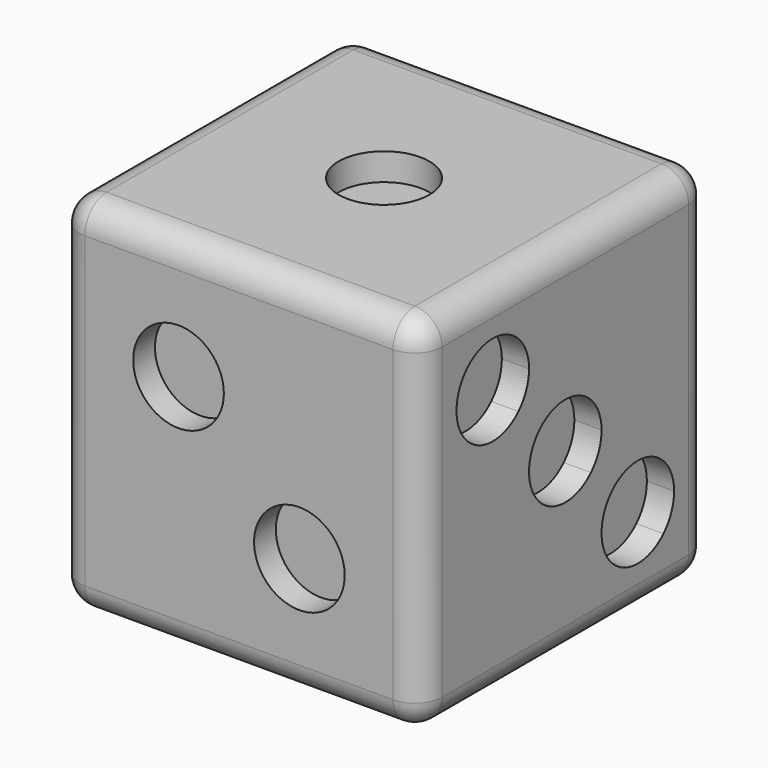
from build123d import *

# Parameters (mm, degrees)
F1_W      = 20
F1_H      = 20
F2_DEPTH  = 20
F3_R      = 2.5
F9_DEPTH  = 1.5
F10_DEPTH = 1.5
F11_DEPTH = 1.5
F12_DEPTH = 1.5
F13_DEPTH = 1.5
F14_DEPTH = 1.5
F15_R     = 1.5


with BuildPart() as f2:
    # F1 (on Top) → F2 (new body)
    with BuildSketch(Plane.XY):
        Rectangle(F1_W, F1_H)
    extrude(amount=F2_DEPTH)

    # F3 (on face) → F9 (cut)
    with BuildSketch(Plane.XY.offset(20)):
        Circle(F3_R)
    extrude(amount=-F9_DEPTH, mode=Mode.SUBTRACT)

    # F6 (on face) → F10 (cut)
    with BuildSketch(Plane.XZ.offset(10)):
        with BuildLine():
            ThreePointArc((-0.8333333333, 13.3333333333), (-2.3766247524, 15.6430321646), (-5.1011002863, 15.1011002863))
            Line((-5.1011002863, 15.1011002863), (-3.3333333333, 13.3333333333))
            Line((-3.3333333333, 13.3333333333), (-1.5655663804, 11.5655663804))
            ThreePointArc((-1.5655663804, 11.5655663804), (-1.0236345021, 12.3766247524), (-0.8333333333, 13.3333333333))
        make_face()
        with BuildLine():
            Line((-3.3333333333, 13.3333333333), (-5.1011002863, 15.1011002863))
            ThreePointArc((-5.1011002863, 15.1011002863), (-5.1011002863, 11.5655663804), (-1.5655663804, 11.5655663804))
            Line((-1.5655663804, 11.5655663804), (-3.3333333333, 13.3333333333))
        make_face()
        with BuildLine():
            ThreePointArc((5.8333333333, 6.6666666667), (4.2900419142, 8.9763654979), (1.5655663804, 8.4344336196))
            Line((1.5655663804, 8.4344336196), (3.3333333333, 6.6666666667))
            Line((3.3333333333, 6.6666666667), (5.1011002863, 4.8988997137))
            ThreePointArc((5.1011002863, 4.8988997137), (5.6430321646, 5.7099580858), (5.8333333333, 6.6666666667))
        make_face()
        with BuildLine():
            Line((3.3333333333, 6.6666666667), (1.5655663804, 8.4344336196))
            ThreePointArc((1.5655663804, 8.4344336196), (1.5655663804, 4.8988997137), (5.1011002863, 4.8988997137))
            Line((5.1011002863, 4.8988997137), (3.3333333333, 6.6666666667))
        make_face()
    extrude(amount=-F10_DEPTH, mode=Mode.SUBTRACT)

    # F8 (on face) → F11 (cut)
    with BuildSketch(Plane.YZ.offset(10)):
        with BuildLine():
            Line((-5, 15), (-6.767766953, 16.767766953))
            ThreePointArc((-6.767766953, 16.767766953), (-6.767766953, 13.232233047), (-3.232233047, 13.232233047))
            Line((-3.232233047, 13.232233047), (-5, 15))
        make_face()
        with BuildLine():
            ThreePointArc((-2.5, 15), (-4.0432914191, 17.3096988313), (-6.767766953, 16.767766953))
            Line((-6.767766953, 16.767766953), (-5, 15))
            Line((-5, 15), (-3.232233047, 13.232233047))
            ThreePointArc((-3.232233047, 13.232233047), (-2.6903011687, 14.0432914191), (-2.5, 15))
        make_face()
        with BuildLine():
            Line((0, 10), (-1.767766953, 11.767766953))
            ThreePointArc((-1.767766953, 11.767766953), (-1.767766953, 8.232233047), (1.767766953, 8.232233047))
            Line((1.767766953, 8.232233047), (0, 10))
        make_face()
        with BuildLine():
            ThreePointArc((2.5, 10), (0.9567085809, 12.3096988313), (-1.767766953, 11.767766953))
            Line((-1.767766953, 11.767766953), (0, 10))
            Line((0, 10), (1.767766953, 8.232233047))
            ThreePointArc((1.767766953, 8.232233047), (2.3096988313, 9.0432914191), (2.5, 10))
        make_face()
        with BuildLine():
            ThreePointArc((3.232233047, 6.767766953), (3.232233047, 3.232233047), (6.767766953, 3.232233047))
            Line((6.767766953, 3.232233047), (5, 5))
            Line((5, 5), (3.232233047, 6.767766953))
        make_face()
        with BuildLine():
            Line((5, 5), (6.767766953, 3.232233047))
            ThreePointArc((6.767766953, 3.232233047), (7.3096988313, 4.0432914191), (7.5, 5))
            ThreePointArc((7.5, 5), (5.9567085809, 7.3096988313), (3.232233047, 6.767766953))
            Line((3.232233047, 6.767766953), (5, 5))
        make_face()
    extrude(amount=-F11_DEPTH, mode=Mode.SUBTRACT)

    # F7 (on face) → F12 (cut)
    with BuildSketch(Plane(origin=(-10, 0, 0), x_dir=(0, -1, 0), z_dir=(-1, 0, 0))):
        with BuildLine():
            ThreePointArc((-3, 15.5), (-4.5432914191, 17.8096988313), (-7.267766953, 17.267766953))
            Line((-7.267766953, 17.267766953), (-5.5, 15.5))
            Line((-5.5, 15.5), (-3, 15.5))
        make_face()
        with BuildLine():
            Line((-5.5, 15.5), (-7.267766953, 17.267766953))
            ThreePointArc((-7.267766953, 17.267766953), (-7.8096988313, 14.5432914191), (-5.5, 13))
            Line((-5.5, 13), (-5.5, 15.5))
        make_face()
        with BuildLine():
            Line((-3.732233047, 13.732233047), (-5.5, 15.5))
            Line((-5.5, 15.5), (-5.5, 13))
            ThreePointArc((-5.5, 13), (-4.5432914191, 13.1903011687), (-3.732233047, 13.732233047))
        make_face()
        with BuildLine():
            Line((-3, 15.5), (-5.5, 15.5))
            Line((-5.5, 15.5), (-3.732233047, 13.732233047))
            ThreePointArc((-3.732233047, 13.732233047), (-3.1903011687, 14.5432914191), (-3, 15.5))
        make_face()
        with BuildLine():
            Line((5.5, 15.5), (7.267766953, 17.267766953))
            ThreePointArc((7.267766953, 17.267766953), (4.5432914191, 17.8096988313), (3, 15.5))
            Line((3, 15.5), (5.5, 15.5))
        make_face()
        with BuildLine():
            ThreePointArc((8, 15.5), (7.8096988313, 16.4567085809), (7.267766953, 17.267766953))
            Line((7.267766953, 17.267766953), (5.5, 15.5))
            Line((5.5, 15.5), (5.5, 13))
            ThreePointArc((5.5, 13), (7.267766953, 13.732233047), (8, 15.5))
        make_face()
        with BuildLine():
            Line((5.5, 13), (5.5, 15.5))
            Line((5.5, 15.5), (3.732233047, 13.732233047))
            ThreePointArc((3.732233047, 13.732233047), (4.5432914191, 13.1903011687), (5.5, 13))
        make_face()
        with BuildLine():
            Line((5.5, 15.5), (3, 15.5))
            ThreePointArc((3, 15.5), (3.1903011687, 14.5432914191), (3.732233047, 13.732233047))
            Line((3.732233047, 13.732233047), (5.5, 15.5))
        make_face()
        with BuildLine():
            Line((5.5, 4.5), (7.267766953, 2.732233047))
            ThreePointArc((7.267766953, 2.732233047), (7.8096988313, 3.5432914191), (8, 4.5))
            ThreePointArc((8, 4.5), (7.267766953, 6.267766953), (5.5, 7))
            Line((5.5, 7), (5.5, 4.5))
        make_face()
        with BuildLine():
            ThreePointArc((3, 4.5), (4.5432914191, 2.1903011687), (7.267766953, 2.732233047))
            Line((7.267766953, 2.732233047), (5.5, 4.5))
            Line((5.5, 4.5), (3, 4.5))
        make_face()
        with BuildLine():
            Line((3.732233047, 6.267766953), (5.5, 4.5))
            Line((5.5, 4.5), (5.5, 7))
            ThreePointArc((5.5, 7), (4.5432914191, 6.8096988313), (3.732233047, 6.267766953))
        make_face()
        with BuildLine():
            ThreePointArc((3.732233047, 6.267766953), (3.1903011687, 5.4567085809), (3, 4.5))
            Line((3, 4.5), (5.5, 4.5))
            Line((5.5, 4.5), (3.732233047, 6.267766953))
        make_face()
        with BuildLine():
            Line((-5.5, 4.5), (-7.267766953, 2.732233047))
            ThreePointArc((-7.267766953, 2.732233047), (-4.5432914191, 2.1903011687), (-3, 4.5))
            Line((-3, 4.5), (-5.5, 4.5))
        make_face()
        with BuildLine():
            Line((-3.732233047, 6.267766953), (-5.5, 4.5))
            Line((-5.5, 4.5), (-3, 4.5))
            ThreePointArc((-3, 4.5), (-3.1903011687, 5.4567085809), (-3.732233047, 6.267766953))
        make_face()
        with BuildLine():
            ThreePointArc((-3.732233047, 6.267766953), (-4.5432914191, 6.8096988313), (-5.5, 7))
            Line((-5.5, 7), (-5.5, 4.5))
            Line((-5.5, 4.5), (-3.732233047, 6.267766953))
        make_face()
        with BuildLine():
            ThreePointArc((-5.5, 7), (-7.8096988313, 5.4567085809), (-7.267766953, 2.732233047))
            Line((-7.267766953, 2.732233047), (-5.5, 4.5))
            Line((-5.5, 4.5), (-5.5, 7))
        make_face()
    extrude(amount=-F12_DEPTH, mode=Mode.SUBTRACT)

    # F5 (on face) → F13 (cut)
    with BuildSketch(Plane(origin=(0, 10, 0), x_dir=(-1, 0, 0), z_dir=(0, 1, 0))):
        with BuildLine():
            ThreePointArc((-5.5, 7), (-7.8096988313, 5.4567085809), (-7.267766953, 2.732233047))
            Line((-7.267766953, 2.732233047), (-5.5, 4.5))
            Line((-5.5, 4.5), (-5.5, 7))
        make_face()
        with BuildLine():
            Line((-5.5, 7), (-5.5, 4.5))
            Line((-5.5, 4.5), (-3.732233047, 6.267766953))
            ThreePointArc((-3.732233047, 6.267766953), (-4.5432914191, 6.8096988313), (-5.5, 7))
        make_face()
        with BuildLine():
            Line((-5.5, 4.5), (-7.267766953, 2.732233047))
            ThreePointArc((-7.267766953, 2.732233047), (-4.5432914191, 2.1903011687), (-3, 4.5))
            Line((-3, 4.5), (-5.5, 4.5))
        make_face()
        with BuildLine():
            Line((-3.732233047, 6.267766953), (-5.5, 4.5))
            Line((-5.5, 4.5), (-3, 4.5))
            ThreePointArc((-3, 4.5), (-3.1903011687, 5.4567085809), (-3.732233047, 6.267766953))
        make_face()
        with BuildLine():
            Line((-5.5, 15.5), (-7.267766953, 17.267766953))
            ThreePointArc((-7.267766953, 17.267766953), (-7.8096988313, 14.5432914191), (-5.5, 13))
            Line((-5.5, 13), (-5.5, 15.5))
        make_face()
        with BuildLine():
            ThreePointArc((-3, 15.5), (-4.5432914191, 17.8096988313), (-7.267766953, 17.267766953))
            Line((-7.267766953, 17.267766953), (-5.5, 15.5))
            Line((-5.5, 15.5), (-3, 15.5))
        make_face()
        with BuildLine():
            Line((-3, 15.5), (-5.5, 15.5))
            Line((-5.5, 15.5), (-3.732233047, 13.732233047))
            ThreePointArc((-3.732233047, 13.732233047), (-3.1903011687, 14.5432914191), (-3, 15.5))
        make_face()
        with BuildLine():
            Line((-5.5, 15.5), (-5.5, 13))
            ThreePointArc((-5.5, 13), (-4.5432914191, 13.1903011687), (-3.732233047, 13.732233047))
            Line((-3.732233047, 13.732233047), (-5.5, 15.5))
        make_face()
        with BuildLine():
            ThreePointArc((8, 15.5), (7.8096988313, 16.4567085809), (7.267766953, 17.267766953))
            Line((7.267766953, 17.267766953), (5.5, 15.5))
            Line((5.5, 15.5), (5.5, 13))
            ThreePointArc((5.5, 13), (7.267766953, 13.732233047), (8, 15.5))
        make_face()
        with BuildLine():
            Line((5.5, 13), (5.5, 15.5))
            Line((5.5, 15.5), (3.732233047, 13.732233047))
            ThreePointArc((3.732233047, 13.732233047), (4.5432914191, 13.1903011687), (5.5, 13))
        make_face()
        with BuildLine():
            Line((5.5, 15.5), (3, 15.5))
            ThreePointArc((3, 15.5), (3.1903011687, 14.5432914191), (3.732233047, 13.732233047))
            Line((3.732233047, 13.732233047), (5.5, 15.5))
        make_face()
        with BuildLine():
            Line((5.5, 15.5), (7.267766953, 17.267766953))
            ThreePointArc((7.267766953, 17.267766953), (4.5432914191, 17.8096988313), (3, 15.5))
            Line((3, 15.5), (5.5, 15.5))
        make_face()
        with BuildLine():
            Line((5.5, 4.5), (7.267766953, 2.732233047))
            ThreePointArc((7.267766953, 2.732233047), (7.8096988313, 3.5432914191), (8, 4.5))
            ThreePointArc((8, 4.5), (7.267766953, 6.267766953), (5.5, 7))
            Line((5.5, 7), (5.5, 4.5))
        make_face()
        with BuildLine():
            ThreePointArc((3.732233047, 6.267766953), (3.1903011687, 5.4567085809), (3, 4.5))
            Line((3, 4.5), (5.5, 4.5))
            Line((5.5, 4.5), (3.732233047, 6.267766953))
        make_face()
        with BuildLine():
            Line((3.732233047, 6.267766953), (5.5, 4.5))
            Line((5.5, 4.5), (5.5, 7))
            ThreePointArc((5.5, 7), (4.5432914191, 6.8096988313), (3.732233047, 6.267766953))
        make_face()
        with BuildLine():
            ThreePointArc((3, 4.5), (4.5432914191, 2.1903011687), (7.267766953, 2.732233047))
            Line((7.267766953, 2.732233047), (5.5, 4.5))
            Line((5.5, 4.5), (3, 4.5))
        make_face()
    extrude(amount=-F13_DEPTH, mode=Mode.SUBTRACT)

    # F4 (on face) → F14 (cut)
    with BuildSketch(Plane.XY):
        with BuildLine():
            ThreePointArc((8, -5.5), (7.267766953, -3.732233047), (5.5, -3))
            Line((5.5, -3), (5.5, -5.5))
            Line((5.5, -5.5), (7.267766953, -7.267766953))
            ThreePointArc((7.267766953, -7.267766953), (7.8096988313, -6.4567085809), (8, -5.5))
        make_face()
        with BuildLine():
            ThreePointArc((5.5, -3), (4.5432914191, -3.1903011687), (3.732233047, -3.732233047))
            Line((3.732233047, -3.732233047), (5.5, -5.5))
            Line((5.5, -5.5), (5.5, -3))
        make_face()
        with BuildLine():
            Line((5.5, -5.5), (3.732233047, -3.732233047))
            ThreePointArc((3.732233047, -3.732233047), (3.732233047, -7.267766953), (7.267766953, -7.267766953))
            Line((7.267766953, -7.267766953), (5.5, -5.5))
        make_face()
        with BuildLine():
            ThreePointArc((8, 0), (7.267766953, 1.767766953), (5.5, 2.5))
            Line((5.5, 2.5), (5.5, -2.5))
            ThreePointArc((5.5, -2.5), (7.267766953, -1.767766953), (8, 0))
        make_face()
        with BuildLine():
            Line((5.5, -2.5), (5.5, 2.5))
            ThreePointArc((5.5, 2.5), (3, 0), (5.5, -2.5))
        make_face()
        with BuildLine():
            ThreePointArc((8, 5.5), (7.8096988313, 6.4567085809), (7.267766953, 7.267766953))
            Line((7.267766953, 7.267766953), (5.5, 5.5))
            Line((5.5, 5.5), (5.5, 3))
            ThreePointArc((5.5, 3), (7.267766953, 3.732233047), (8, 5.5))
        make_face()
        with BuildLine():
            Line((5.5, 5.5), (3.732233047, 3.732233047))
            ThreePointArc((3.732233047, 3.732233047), (4.5432914191, 3.1903011687), (5.5, 3))
            Line((5.5, 3), (5.5, 5.5))
        make_face()
        with BuildLine():
            ThreePointArc((7.267766953, 7.267766953), (3.732233047, 7.267766953), (3.732233047, 3.732233047))
            Line((3.732233047, 3.732233047), (5.5, 5.5))
            Line((5.5, 5.5), (7.267766953, 7.267766953))
        make_face()
        with BuildLine():
            ThreePointArc((-5.5, 3), (-4.5432914191, 3.1903011687), (-3.732233047, 3.732233047))
            Line((-3.732233047, 3.732233047), (-5.5, 5.5))
            Line((-5.5, 5.5), (-5.5, 3))
        make_face()
        with BuildLine():
            Line((-5.5, 5.5), (-3.732233047, 3.732233047))
            ThreePointArc((-3.732233047, 3.732233047), (-3.1903011687, 4.5432914191), (-3, 5.5))
            ThreePointArc((-3, 5.5), (-4.5432914191, 7.8096988313), (-7.267766953, 7.267766953))
            Line((-7.267766953, 7.267766953), (-5.5, 5.5))
        make_face()
        with BuildLine():
            ThreePointArc((-7.267766953, 7.267766953), (-7.8096988313, 4.5432914191), (-5.5, 3))
            Line((-5.5, 3), (-5.5, 5.5))
            Line((-5.5, 5.5), (-7.267766953, 7.267766953))
        make_face()
        with BuildLine():
            Line((-5.5, 2.5), (-5.5, -2.5))
            ThreePointArc((-5.5, -2.5), (-3.732233047, -1.767766953), (-3, 0))
            ThreePointArc((-3, 0), (-3.732233047, 1.767766953), (-5.5, 2.5))
        make_face()
        with BuildLine():
            ThreePointArc((-5.5, 2.5), (-8, 0), (-5.5, -2.5))
            Line((-5.5, -2.5), (-5.5, 2.5))
        make_face()
        with BuildLine():
            ThreePointArc((-7.267766953, -7.267766953), (-4.5432914191, -7.8096988313), (-3, -5.5))
            ThreePointArc((-3, -5.5), (-3.1903011687, -4.5432914191), (-3.732233047, -3.732233047))
            Line((-3.732233047, -3.732233047), (-5.5, -5.5))
            Line((-5.5, -5.5), (-7.267766953, -7.267766953))
        make_face()
        with BuildLine():
            ThreePointArc((-5.5, -3), (-7.8096988313, -4.5432914191), (-7.267766953, -7.267766953))
            Line((-7.267766953, -7.267766953), (-5.5, -5.5))
            Line((-5.5, -5.5), (-5.5, -3))
        make_face()
        with BuildLine():
            Line((-5.5, -5.5), (-3.732233047, -3.732233047))
            ThreePointArc((-3.732233047, -3.732233047), (-4.5432914191, -3.1903011687), (-5.5, -3))
            Line((-5.5, -3), (-5.5, -5.5))
        make_face()
    extrude(amount=F14_DEPTH, mode=Mode.SUBTRACT)

    # F15
    f15_edges = [f2.edges().sort_by_distance(p)[0] for p in [
        (10, 0, 20),
        (10, -10, 10),
        (10, 10, 10),
        (10, 0, 0),
        (-10, -10, 10),
        (-10, 10, 10),
        (0, -10, 20),
        (0, 10, 20),
        (-10, 0, 20),
        (0, 10, 0),
        (-10, 0, 0),
        (0, -10, 0),
    ]]
    fillet(f15_edges, radius=F15_R)


solid = f2.part
